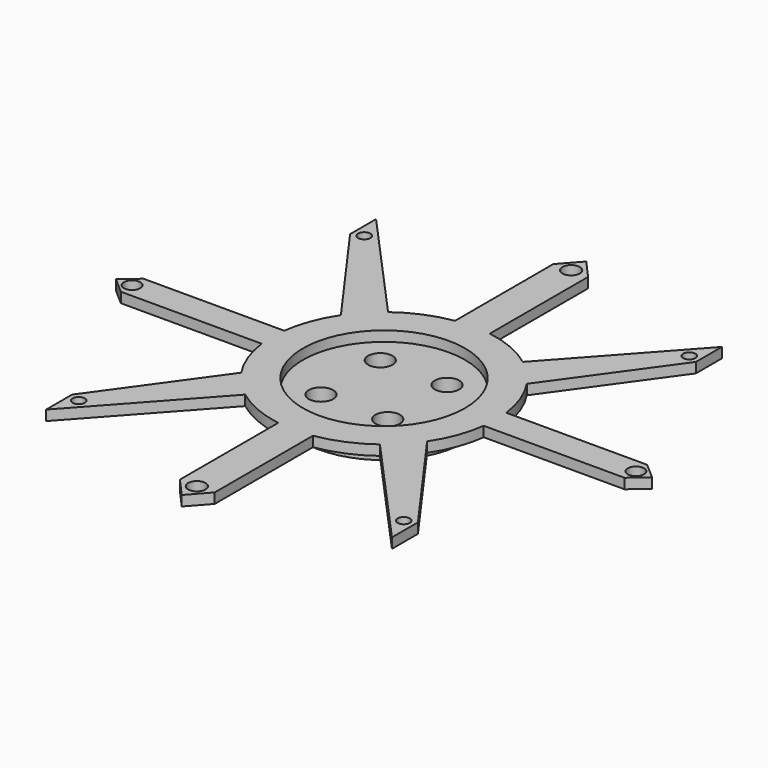
from build123d import *

# Parameters (mm, degrees)
F0_R     = 44.654624
F0_R_2   = 6.717883
F1_DEPTH = 10.922
F0_R_3   = 4.822257
F0_R_4   = 3.372007
F0_R_5   = 4.508644
F2_DEPTH = 5.588


with BuildPart() as f1:
    # F0 (on Top) → F1 (new body)
    with BuildSketch(Plane.XY):
        Circle(F0_R)
        with Locations((-18.397482, -20.442013)):
            Circle(F0_R_2, mode=Mode.SUBTRACT)
        with Locations((18.397482, -20.442013)):
            Circle(F0_R_2, mode=Mode.SUBTRACT)
        with Locations((-18.397482, 20.442013)):
            Circle(F0_R_2, mode=Mode.SUBTRACT)
        with Locations((18.397482, 20.442013)):
            Circle(F0_R_2, mode=Mode.SUBTRACT)
    extrude(amount=-F1_DEPTH)


with BuildPart() as f2:
    # F0 (on Top) → F2 (new body)
    with BuildSketch(Plane.XY):
        with BuildLine():
            ThreePointArc((61.164414, -7.770147), (61.532971, -3.89284), (61.655987, 0))
            ThreePointArc((61.655987, 0), (61.532971, 3.89284), (61.164414, 7.770147))
            ThreePointArc((61.164414, 7.770147), (57.73874, 21.626342), (51.218708, 34.323529))
            ThreePointArc((51.218708, 34.323529), (44.798463, 42.362229), (37.130938, 49.22148))
            ThreePointArc((37.130938, 49.22148), (24.074954, 56.761407), (9.579403, 60.907272))
            ThreePointArc((9.579403, 60.907272), (0, 61.655987), (-9.579403, 60.907272))
            ThreePointArc((-9.579403, 60.907272), (-24.074954, 56.761407), (-37.130938, 49.22148))
            ThreePointArc((-37.130938, 49.22148), (-44.798463, 42.362229), (-51.218708, 34.323529))
            ThreePointArc((-51.218708, 34.323529), (-57.73874, 21.626342), (-61.164414, 7.770147))
            ThreePointArc((-61.164414, 7.770147), (-61.655987, 0), (-61.164414, -7.770147))
            ThreePointArc((-61.164414, -7.770147), (-57.73874, -21.626342), (-51.218708, -34.323529))
            ThreePointArc((-51.218708, -34.323529), (-44.798463, -42.362229), (-37.130938, -49.22148))
            ThreePointArc((-37.130938, -49.22148), (-24.074954, -56.761407), (-9.579403, -60.907272))
            ThreePointArc((-9.579403, -60.907272), (0, -61.655987), (9.579403, -60.907272))
            ThreePointArc((9.579403, -60.907272), (24.074954, -56.761407), (37.130938, -49.22148))
            ThreePointArc((37.130938, -49.22148), (44.798463, -42.362229), (51.218708, -34.323529))
            ThreePointArc((51.218708, -34.323529), (57.73874, -21.626342), (61.164414, -7.770147))
        make_face()
        Circle(F0_R, mode=Mode.SUBTRACT)
        with BuildLine():
            ThreePointArc((-9.579403, 60.907272), (0, 61.655987), (9.579403, 60.907272))
            Line((9.579403, 60.907272), (9.579403, 128.570766))
            Line((9.579403, 128.570766), (0, 139.329538))
            Line((0, 139.329538), (-9.579403, 128.570766))
            Line((-9.579403, 128.570766), (-9.579403, 60.907272))
        make_face()
        with Locations((0, 128.864974)):
            Circle(F0_R_3, mode=Mode.SUBTRACT)
        with BuildLine():
            ThreePointArc((37.130938, 49.22148), (44.798463, 42.362229), (51.218708, 34.323529))
            Line((51.218708, 34.323529), (95.282316, 95.741056))
            Line((95.282316, 95.741056), (95.282316, 113.635503))
            Line((95.282316, 113.635503), (37.130938, 49.22148))
        make_face()
        with Locations((89.535065, 98.323822)):
            Circle(F0_R_4, mode=Mode.SUBTRACT)
        with BuildLine():
            ThreePointArc((61.164414, 7.770147), (61.532971, 3.89284), (61.655987, 0))
            ThreePointArc((61.655987, 0), (61.532971, -3.89284), (61.164414, -7.770147))
            Line((61.164414, -7.770147), (138.787315, -7.770147))
            Line((138.787315, -7.770147), (147.67915, 0))
            Line((147.67915, 0), (138.787315, 7.770147))
            Line((138.787315, 7.770147), (61.164414, 7.770147))
        make_face()
        with Locations((138.787315, 0)):
            Circle(F0_R_5, mode=Mode.SUBTRACT)
        with BuildLine():
            Line((95.282316, -95.741056), (51.218708, -34.323529))
            ThreePointArc((51.218708, -34.323529), (44.798463, -42.362229), (37.130938, -49.22148))
            Line((37.130938, -49.22148), (95.282316, -113.635503))
            Line((95.282316, -113.635503), (95.282316, -95.741056))
        make_face()
        with Locations((89.535065, -98.323822)):
            Circle(F0_R_4, mode=Mode.SUBTRACT)
        with BuildLine():
            Line((9.579403, -128.570766), (9.579403, -60.907272))
            ThreePointArc((9.579403, -60.907272), (0, -61.655987), (-9.579403, -60.907272))
            Line((-9.579403, -60.907272), (-9.579403, -128.570766))
            Line((-9.579403, -128.570766), (0, -139.329538))
            Line((0, -139.329538), (9.579403, -128.570766))
        make_face()
        with Locations((0, -128.864974)):
            Circle(F0_R_3, mode=Mode.SUBTRACT)
        with BuildLine():
            Line((-95.282316, -113.635503), (-37.130938, -49.22148))
            ThreePointArc((-37.130938, -49.22148), (-44.798463, -42.362229), (-51.218708, -34.323529))
            Line((-51.218708, -34.323529), (-95.282316, -95.741056))
            Line((-95.282316, -95.741056), (-95.282316, -113.635503))
        make_face()
        with Locations((-89.535065, -98.323822)):
            Circle(F0_R_4, mode=Mode.SUBTRACT)
        with BuildLine():
            ThreePointArc((-61.164414, -7.770147), (-61.655987, 0), (-61.164414, 7.770147))
            Line((-61.164414, 7.770147), (-138.787315, 7.770147))
            Line((-138.787315, 7.770147), (-147.67915, 0))
            Line((-147.67915, 0), (-138.787315, -7.770147))
            Line((-138.787315, -7.770147), (-61.164414, -7.770147))
        make_face()
        with Locations((-138.787315, 0)):
            Circle(F0_R_5, mode=Mode.SUBTRACT)
        with BuildLine():
            ThreePointArc((-51.218708, 34.323529), (-44.798463, 42.362229), (-37.130938, 49.22148))
            Line((-37.130938, 49.22148), (-95.282316, 113.635503))
            Line((-95.282316, 113.635503), (-95.282316, 95.741056))
            Line((-95.282316, 95.741056), (-51.218708, 34.323529))
        make_face()
        with Locations((-89.535065, 98.323822)):
            Circle(F0_R_4, mode=Mode.SUBTRACT)
    extrude(amount=F2_DEPTH)


solid = Compound([f1.part, f2.part])
